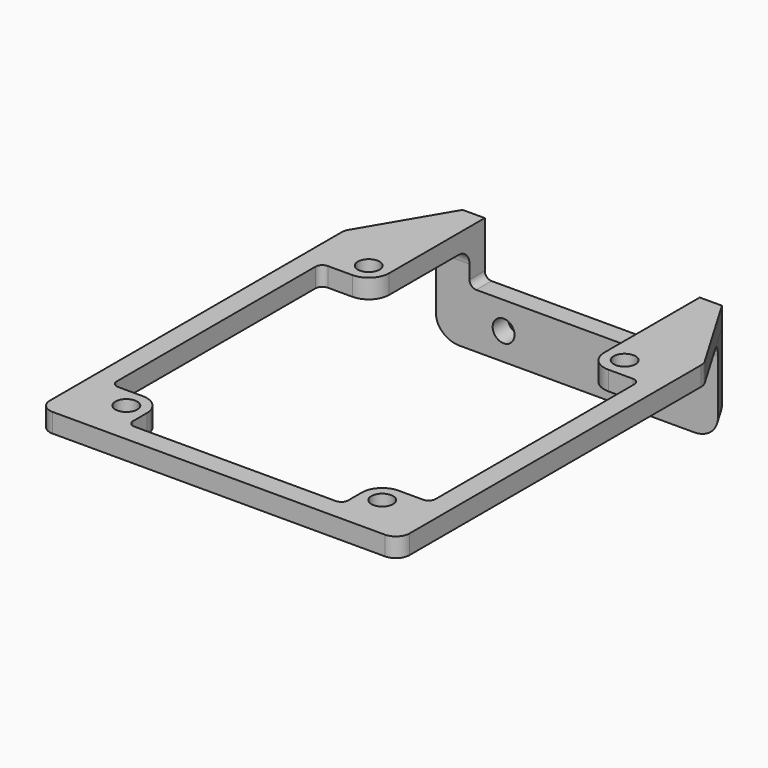
from build123d import *

# Parameters (mm, degrees)
SKETCH_R     = 1.6
PAD_DEPTH    = 2.8
PAD001_DEPTH = 13
FILLET_R     = 2
SKETCH002_R  = 1.6
HOLE_DEPTH   = 68.401
FILLET001_R  = 3
POCKET_DEPTH = 2.8


with BuildPart() as part:
    # Sketch → Pad (new body)
    with BuildSketch(Plane.XY):
        with BuildLine():
            Line((26.35, 26.7), (26.35, -26.7))
            ThreePointArc((24.35, -28.7), (25.764214, -28.114214), (26.35, -26.7))
            Line((24.35, -28.7), (-24.35, -28.7))
            ThreePointArc((-26.35, -26.7), (-25.764214, -28.114214), (-24.35, -28.7))
            Line((-26.35, -26.7), (-26.35, 26.7))
            ThreePointArc((-26.072403, 27.716527), (-26.279353, 27.226875), (-26.35, 26.7))
            Line((-26.072403, 27.716527), (-19, 39.7))
            Line((-19, 39.7), (19, 39.7))
            Line((26.072403, 27.716527), (19, 39.7))
            ThreePointArc((26.35, 26.7), (26.279353, 27.226875), (26.072403, 27.716527))
        make_face()
        with Locations((-18.75, -22.2)):
            Circle(SKETCH_R, mode=Mode.SUBTRACT)
        with Locations((18.75, -22.2)):
            Circle(SKETCH_R, mode=Mode.SUBTRACT)
        with Locations((18.75, 22.2)):
            Circle(SKETCH_R, mode=Mode.SUBTRACT)
        with Locations((-18.75, 22.2)):
            Circle(SKETCH_R, mode=Mode.SUBTRACT)
        with BuildLine():
            Line((-15.75, 36.9), (15.75, 36.9))
            Line((15.75, 22.2), (15.75, 36.9))
            ThreePointArc((15.75, 22.2), (16.62868, 20.07868), (18.75, 19.2))
            Line((22.35, 19.2), (18.75, 19.2))
            ThreePointArc((23.35, 18.2), (23.057107, 18.907107), (22.35, 19.2))
            Line((23.35, 18.2), (23.35, -18.2))
            ThreePointArc((22.35, -19.2), (23.057107, -18.907107), (23.35, -18.2))
            Line((22.35, -19.2), (18.75, -19.2))
            ThreePointArc((18.75, -19.2), (16.62868, -20.07868), (15.75, -22.2))
            Line((15.75, -22.2), (15.75, -24.7))
            ThreePointArc((14.75, -25.7), (15.457107, -25.407107), (15.75, -24.7))
            Line((14.75, -25.7), (-14.75, -25.7))
            ThreePointArc((-15.75, -24.7), (-15.457107, -25.407107), (-14.75, -25.7))
            Line((-15.75, -22.2), (-15.75, -24.7))
            ThreePointArc((-15.75, -22.2), (-16.62868, -20.07868), (-18.75, -19.2))
            Line((-22.35, -19.2), (-18.75, -19.2))
            ThreePointArc((-23.35, -18.2), (-23.057107, -18.907107), (-22.35, -19.2))
            Line((-23.35, -18.2), (-23.35, 18.2))
            ThreePointArc((-22.35, 19.2), (-23.057107, 18.907107), (-23.35, 18.2))
            Line((-22.35, 19.2), (-18.75, 19.2))
            ThreePointArc((-18.75, 19.2), (-16.62868, 20.07868), (-15.75, 22.2))
            Line((-15.75, 22.2), (-15.75, 36.9))
        make_face(mode=Mode.SUBTRACT)
    extrude(amount=PAD_DEPTH)

    # Sketch001 (on Face37 of Pad) → Pad001 (join)
    with BuildSketch(Plane(origin=(0, 0, 0), x_dir=(1, 0, 0), z_dir=(0, 0, -1))):
        Polygon((-20.652503, -36.9), (20.652503, -36.9), (19, -39.7), (-19, -39.7), align=None)
    extrude(amount=PAD001_DEPTH)

    # Fillet
    fillet_edges = [part.edges().sort_by_distance(p)[0] for p in [
        (-18.201252, 36.9, 0),
        (18.201252, 36.9, 0),
    ]]
    fillet(fillet_edges, radius=FILLET_R)

    # Sketch002 (on Face45 of Fillet) → Hole (cut, through all)
    with BuildSketch(Plane(origin=(0, 39.7, 0), x_dir=(-1, 0, 0), z_dir=(0, 1, 0))):
        with Locations((-10.75, -9)):
            Circle(SKETCH002_R)
        with Locations((10.75, -9)):
            Circle(SKETCH002_R)
    extrude(amount=-HOLE_DEPTH, mode=Mode.SUBTRACT)

    # Fillet001
    fillet001_edges = [part.edges().sort_by_distance(p)[0] for p in [
        (-19.826252, 38.3, -13),
        (19.826252, 38.3, -13),
    ]]
    fillet(fillet001_edges, radius=FILLET001_R)

    # Sketch003 (on Face5 of Fillet001) → Pocket (cut)
    with BuildSketch(Plane(origin=(0, 39.7, 0), x_dir=(-1, 0, 0), z_dir=(0, 1, 0))):
        with BuildLine():
            Line((-15.75, 2.8), (15.75, 2.8))
            Line((15.75, 2.8), (15.75, -4))
            ThreePointArc((14.75, -5), (15.457107, -4.707107), (15.75, -4))
            Line((14.75, -5), (-14.75, -5))
            ThreePointArc((-15.75, -4), (-15.457107, -4.707107), (-14.75, -5))
            Line((-15.75, -4), (-15.75, 2.8))
        make_face()
    extrude(amount=-POCKET_DEPTH, mode=Mode.SUBTRACT)


solid = part.part
